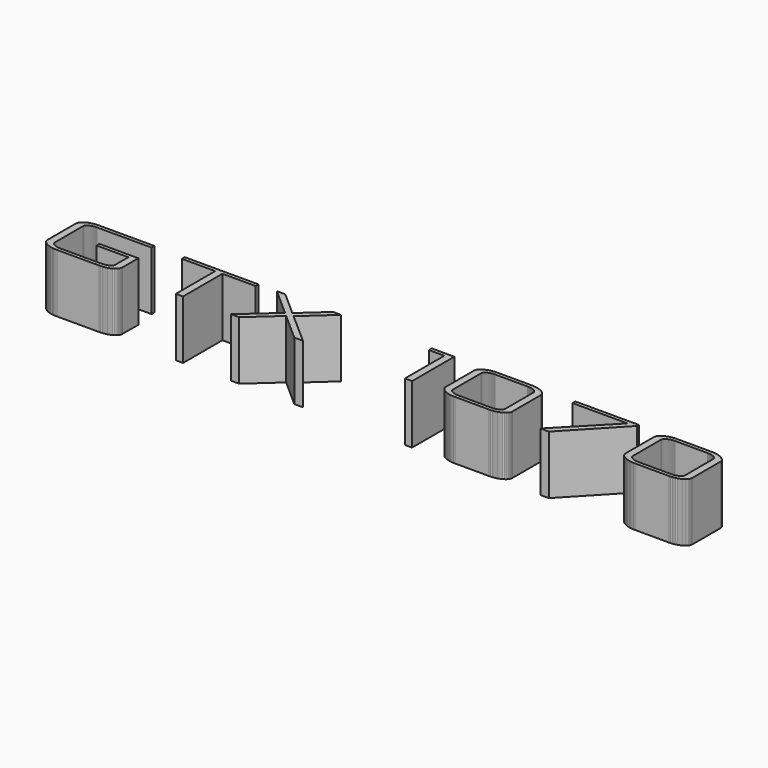
from build123d import *

# Parameters (mm, degrees)
F1_DEPTH = 5


with BuildPart() as f1:
    # F0 (on Top) → F1 (new body)
    with BuildSketch(Plane.XY):
        Polygon((-16.47708, 5.397054), (-16.47708, 5.090834), (-13.633607, 5.090834), (-13.633607, 0.891244), (-13.021167, 0.891244), (-13.021167, 5.090834), (-10.177695, 5.090834), (-10.177695, 5.397054), align=None)
        Polygon((16.868101, 5.397054), (16.868101, 5.090834), (21.561881, 5.090834), (17.486009, 0.891244), (18.206447, 0.891244), (22.287786, 5.204299), (22.287786, 5.397054), align=None)
        Polygon((8.807951, 4.647909), (8.807951, 1.637656), (8.814396, 1.562291), (8.833732, 1.489651), (8.865959, 1.419734), (8.911078, 1.352539), (8.969087, 1.288069), (9.039987, 1.226322), (9.123778, 1.167298), (9.220459, 1.110998), (9.326091, 1.059493), (9.436731, 1.014856), (9.552381, 0.977086), (9.67304, 0.946183), (9.798707, 0.922147), (9.929383, 0.904979), (10.065069, 0.894678), (10.205763, 0.891244), (13.103234, 0.891244), (13.243726, 0.894678), (13.379144, 0.904979), (13.509489, 0.922147), (13.634762, 0.946183), (13.754961, 0.977086), (13.870087, 1.014856), (13.980141, 1.059493), (14.085121, 1.110998), (14.181162, 1.167298), (14.264397, 1.226322), (14.334827, 1.288069), (14.392451, 1.352539), (14.437271, 1.419734), (14.469284, 1.489651), (14.488492, 1.562291), (14.494895, 1.637656), (14.494895, 4.647909), (14.488492, 4.723294), (14.469284, 4.795999), (14.437271, 4.866023), (14.392451, 4.933367), (14.334827, 4.998029), (14.264397, 5.060011), (14.181162, 5.119313), (14.085121, 5.175933), (13.980141, 5.227758), (13.870087, 5.272674), (13.754961, 5.310679), (13.634762, 5.341774), (13.509489, 5.365959), (13.379144, 5.383234), (13.243726, 5.393599), (13.103234, 5.397054), (10.205763, 5.397054), (10.065069, 5.393599), (9.929383, 5.383234), (9.798707, 5.365959), (9.67304, 5.341774), (9.552381, 5.310679), (9.436731, 5.272674), (9.326091, 5.227758), (9.220459, 5.175933), (9.123778, 5.119313), (9.039987, 5.060011), (8.969087, 4.998029), (8.911078, 4.933367), (8.865959, 4.866023), (8.833732, 4.795999), (8.814396, 4.723294), align=None)
        Polygon((9.42423, 1.599496), (9.420391, 1.644491), (9.420391, 4.641073), (9.42423, 4.68609), (9.435749, 4.729547), (9.454946, 4.771445), (9.481823, 4.811784), (9.516378, 4.850564), (9.558613, 4.887784), (9.608526, 4.923445), (9.666119, 4.957546), (9.729222, 4.988785), (9.795668, 5.01586), (9.865458, 5.038768), (9.93859, 5.057512), (10.015065, 5.07209), (10.094883, 5.082504), (10.178043, 5.088751), (10.264547, 5.090834), (13.038299, 5.090834), (13.124803, 5.088751), (13.207963, 5.082504), (13.287781, 5.07209), (13.364256, 5.057512), (13.437388, 5.038768), (13.507177, 5.01586), (13.573624, 4.988785), (13.636727, 4.957546), (13.694319, 4.923445), (13.744233, 4.887784), (13.786467, 4.850564), (13.821023, 4.811784), (13.847899, 4.771445), (13.867097, 4.729547), (13.878616, 4.68609), (13.882455, 4.641073), (13.882455, 1.644491), (13.878616, 1.599496), (13.867097, 1.556102), (13.847899, 1.514311), (13.821023, 1.474122), (13.786467, 1.435535), (13.744233, 1.398549), (13.694319, 1.363166), (13.636727, 1.329385), (13.573624, 1.298466), (13.507177, 1.27167), (13.437388, 1.248996), (13.364256, 1.230445), (13.287781, 1.216016), (13.207963, 1.205709), (13.124803, 1.199526), (13.038299, 1.197464), (10.264547, 1.197464), (10.178043, 1.199526), (10.094883, 1.205709), (10.015065, 1.216016), (9.93859, 1.230445), (9.865458, 1.248996), (9.795668, 1.27167), (9.729222, 1.298466), (9.666119, 1.329385), (9.608526, 1.363166), (9.558613, 1.398549), (9.516378, 1.435535), (9.481823, 1.474122), (9.454946, 1.514311), (9.435749, 1.556102), align=None, mode=Mode.SUBTRACT)
        Polygon((24.162701, 4.647909), (24.162701, 1.637656), (24.169146, 1.562291), (24.188482, 1.489651), (24.22071, 1.419734), (24.265828, 1.352539), (24.323837, 1.288069), (24.394737, 1.226322), (24.478528, 1.167298), (24.575209, 1.110998), (24.680841, 1.059493), (24.791481, 1.014856), (24.907131, 0.977086), (25.02779, 0.946183), (25.153457, 0.922147), (25.284134, 0.904979), (25.419819, 0.894678), (25.560513, 0.891244), (28.457984, 0.891244), (28.598476, 0.894678), (28.733894, 0.904979), (28.864239, 0.922147), (28.989512, 0.946183), (29.109711, 0.977086), (29.224838, 1.014856), (29.334891, 1.059493), (29.439871, 1.110998), (29.535912, 1.167298), (29.619147, 1.226322), (29.689577, 1.288069), (29.747201, 1.352539), (29.792021, 1.419734), (29.824034, 1.489651), (29.843243, 1.562291), (29.849645, 1.637656), (29.849645, 4.647909), (29.843243, 4.723294), (29.824034, 4.795999), (29.792021, 4.866023), (29.747201, 4.933367), (29.689577, 4.998029), (29.619147, 5.060011), (29.535912, 5.119313), (29.439871, 5.175933), (29.334891, 5.227758), (29.224838, 5.272674), (29.109711, 5.310679), (28.989512, 5.341774), (28.864239, 5.365959), (28.733894, 5.383234), (28.598476, 5.393599), (28.457984, 5.397054), (25.560513, 5.397054), (25.419819, 5.393599), (25.284134, 5.383234), (25.153457, 5.365959), (25.02779, 5.341774), (24.907131, 5.310679), (24.791481, 5.272674), (24.680841, 5.227758), (24.575209, 5.175933), (24.478528, 5.119313), (24.394737, 5.060011), (24.323837, 4.998029), (24.265828, 4.933367), (24.22071, 4.866023), (24.188482, 4.795999), (24.169146, 4.723294), align=None)
        Polygon((24.77898, 1.599496), (24.775141, 1.644491), (24.775141, 4.641073), (24.77898, 4.68609), (24.790499, 4.729547), (24.809697, 4.771445), (24.836573, 4.811784), (24.871128, 4.850564), (24.913363, 4.887784), (24.963276, 4.923445), (25.020869, 4.957546), (25.083972, 4.988785), (25.150419, 5.01586), (25.220208, 5.038768), (25.29334, 5.057512), (25.369815, 5.07209), (25.449633, 5.082504), (25.532793, 5.088751), (25.619297, 5.090834), (28.393049, 5.090834), (28.479553, 5.088751), (28.562713, 5.082504), (28.642531, 5.07209), (28.719006, 5.057512), (28.792138, 5.038768), (28.861927, 5.01586), (28.928374, 4.988785), (28.991477, 4.957546), (29.04907, 4.923445), (29.098983, 4.887784), (29.141218, 4.850564), (29.175773, 4.811784), (29.202649, 4.771445), (29.221847, 4.729547), (29.233366, 4.68609), (29.237205, 4.641073), (29.237205, 1.644491), (29.233366, 1.599496), (29.221847, 1.556102), (29.202649, 1.514311), (29.175773, 1.474122), (29.141218, 1.435535), (29.098983, 1.398549), (29.04907, 1.363166), (28.991477, 1.329385), (28.928374, 1.298466), (28.861927, 1.27167), (28.792138, 1.248996), (28.719006, 1.230445), (28.642531, 1.216016), (28.562713, 1.205709), (28.479553, 1.199526), (28.393049, 1.197464), (25.619297, 1.197464), (25.532793, 1.199526), (25.449633, 1.205709), (25.369815, 1.216016), (25.29334, 1.230445), (25.220208, 1.248996), (25.150419, 1.27167), (25.083972, 1.298466), (25.020869, 1.329385), (24.963276, 1.363166), (24.913363, 1.398549), (24.871128, 1.435535), (24.836573, 1.474122), (24.809697, 1.514311), (24.790499, 1.556102), align=None, mode=Mode.SUBTRACT)
        Polygon((-25.182479, 4.64244), (-25.182479, 1.64244), (-25.17614, 1.5658), (-25.157125, 1.492064), (-25.125431, 1.421234), (-25.081061, 1.353309), (-25.024013, 1.288288), (-24.954288, 1.226173), (-24.871886, 1.166962), (-24.776806, 1.110657), (-24.672691, 1.059232), (-24.563182, 1.014664), (-24.44828, 0.976952), (-24.327985, 0.946097), (-24.202296, 0.922099), (-24.071214, 0.904957), (-23.934738, 0.894672), (-23.792869, 0.891244), (-20.191365, 0.891244), (-20.049293, 0.894689), (-19.91255, 0.905022), (-19.781137, 0.922243), (-19.655053, 0.946354), (-19.534298, 0.977353), (-19.418873, 1.01524), (-19.308777, 1.060017), (-19.204011, 1.111682), (-19.10829, 1.16826), (-19.025332, 1.227775), (-18.955137, 1.290227), (-18.897705, 1.355615), (-18.853035, 1.423942), (-18.821128, 1.495205), (-18.801984, 1.569405), (-18.795603, 1.646542), (-18.795603, 3.341005), (-22.120278, 3.341005), (-22.120278, 3.034785), (-19.408043, 3.034785), (-19.408043, 1.650643), (-19.41184, 1.604051), (-19.42323, 1.559285), (-19.442214, 1.516346), (-19.468792, 1.475233), (-19.502963, 1.435946), (-19.544727, 1.398485), (-19.594085, 1.362851), (-19.651037, 1.329043), (-19.713436, 1.298204), (-19.779134, 1.271477), (-19.848133, 1.248862), (-19.920432, 1.230359), (-19.996031, 1.215968), (-20.074931, 1.205688), (-20.15713, 1.19952), (-20.24263, 1.197464), (-23.729984, 1.197464), (-23.813978, 1.199552), (-23.895077, 1.205816), (-23.973283, 1.216256), (-24.048593, 1.230872), (-24.12101, 1.249664), (-24.190532, 1.272631), (-24.25716, 1.299775), (-24.320893, 1.331094), (-24.379287, 1.365329), (-24.429895, 1.401219), (-24.472716, 1.438766), (-24.507753, 1.477967), (-24.535003, 1.518823), (-24.554467, 1.561336), (-24.566146, 1.605503), (-24.570039, 1.651326), (-24.570039, 4.643808), (-24.566157, 4.689577), (-24.55451, 4.733584), (-24.535099, 4.77583), (-24.507924, 4.816312), (-24.472984, 4.855033), (-24.430279, 4.891992), (-24.37981, 4.927188), (-24.321577, 4.960622), (-24.258014, 4.99114), (-24.191557, 5.01759), (-24.122206, 5.03997), (-24.04996, 5.058281), (-23.974821, 5.072523), (-23.896786, 5.082696), (-23.815858, 5.0888), (-23.732035, 5.090834), (-19.064913, 5.090834), (-19.064913, 5.397054), (-23.790818, 5.397054), (-23.932858, 5.393604), (-24.069505, 5.383256), (-24.200758, 5.366007), (-24.326618, 5.341859), (-24.447084, 5.310812), (-24.562157, 5.272866), (-24.671836, 5.22802), (-24.776123, 5.176275), (-24.871362, 5.119638), (-24.953903, 5.060118), (-25.023746, 4.997714), (-25.08089, 4.932427), (-25.125335, 4.864255), (-25.157082, 4.793201), (-25.17613, 4.719263), align=None)
        Polygon((-6.238529, 3.291107), (-8.921372, 0.891244), (-8.23101, 0.891244), (-5.896082, 2.993773), (-3.52561, 0.891244), (-2.786718, 0.891244), (-5.488016, 3.271969), (-3.141468, 5.397054), (-3.819527, 5.397054), (-5.835931, 3.575455), (-7.888563, 5.397054), (-8.609001, 5.397054), align=None)
        Polygon((4.608361, 5.397054), (4.608361, 5.090834), (5.920733, 5.090834), (5.920733, 0.891244), (6.533173, 0.891244), (6.533173, 5.397054), align=None)
    extrude(amount=F1_DEPTH)


solid = f1.part
